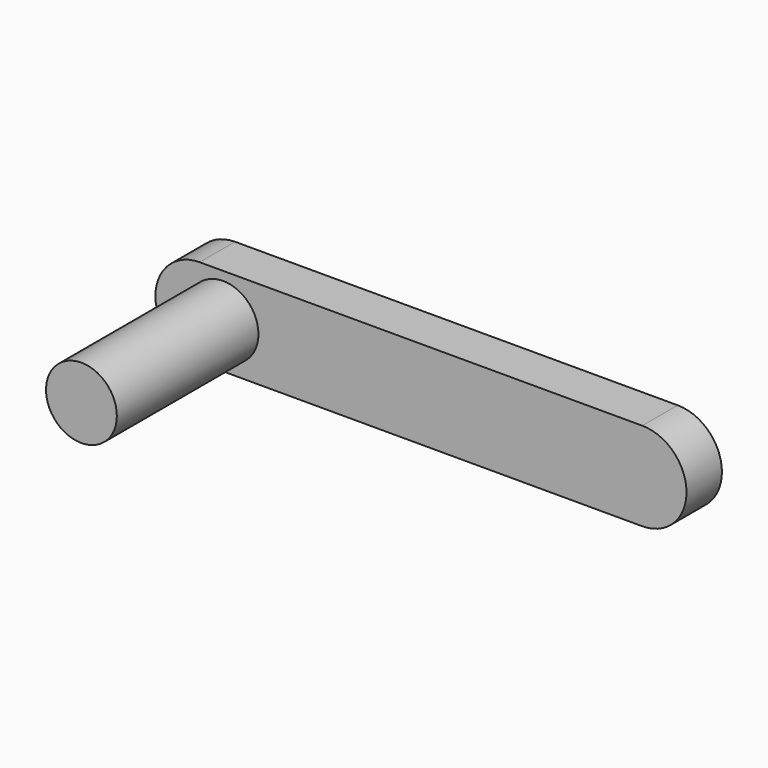
from build123d import *

# Parameters (mm, degrees)
F1_DEPTH = 3.175
F2_R     = 2.54
F3_DEPTH = 12.7
F4_R     = 1.1938
F5_DEPTH = 2.54


with BuildPart() as f1:
    # F0 (on Front) → F1 (new body)
    with BuildSketch(Plane.XZ):
        with BuildLine():
            Line((31.75, 3.175), (0, 3.175))
            ThreePointArc((0, 3.175), (-3.175, 0), (0, -3.175))
            Line((0, -3.175), (31.75, -3.175))
            ThreePointArc((31.75, -3.175), (34.925, 0), (31.75, 3.175))
        make_face()
    extrude(amount=F1_DEPTH)

    # F2 (on face) → F3 (join)
    with BuildSketch(Plane.XZ.offset(3.175)):
        with Locations((1.6764, 0)):
            Circle(F2_R)
    extrude(amount=F3_DEPTH)

    # F4 (on face) → F5 (join)
    with BuildSketch(Plane(origin=(0, 0, 0), x_dir=(-1, 0, 0), z_dir=(0, 1, 0))):
        with Locations((-29.845, 0)):
            Circle(F4_R)
        with Locations((-13.335, 0)):
            Circle(F4_R)
    extrude(amount=F5_DEPTH)


solid = f1.part
